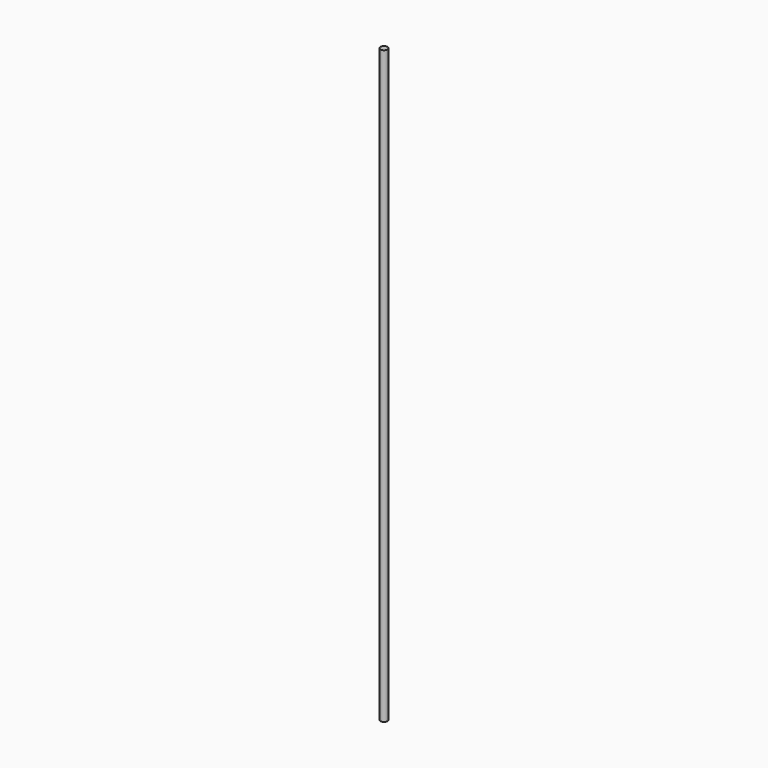
from build123d import *

# Parameters (mm, degrees)
SKETCH_R      = 2
EXTRUDE_DEPTH = 330


with BuildPart() as part:
    # Sketch → Extrude (new body)
    with BuildSketch(Plane.XY):
        Circle(SKETCH_R)
    extrude(amount=EXTRUDE_DEPTH)


solid = part.part
